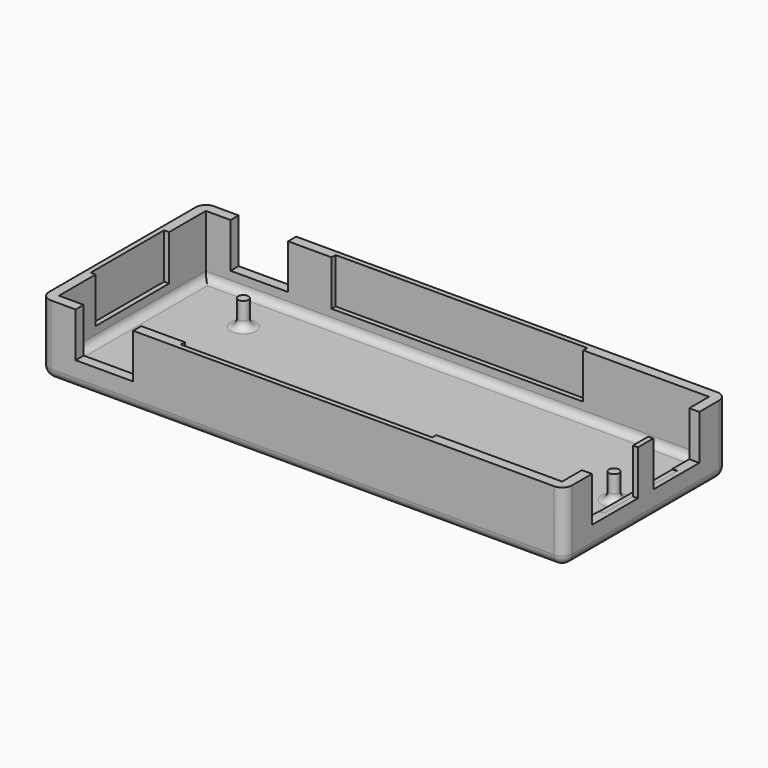
from build123d import *

# Parameters (mm, degrees)
SKETCH002_W          = 100
SKETCH002_H          = 36.5
PAD002_DEPTH         = 12
THICKNESS_T          = 2
POCKET_DEPTH         = 9.001
SKETCH018_W          = 11.43
SKETCH018_H          = 15.122581
POCKET001_DEPTH      = 52.001
SKETCH019_W          = 11.43
SKETCH019_H          = 14.044283
POCKET002_DEPTH      = 20.251
POCKET002_DEPTH_BACK = 20.251
SKETCH003_R          = 1
PAD003_DEPTH         = 5
FILLET_R             = 1.5


with BuildPart() as part:
    # Sketch002 → Pad002 (new body)
    with BuildSketch(Plane.XY):
        Rectangle(SKETCH002_W, SKETCH002_H)
    extrude(amount=PAD002_DEPTH)

    # Thickness
    thickness_openings = [part.faces().sort_by_distance(p)[0] for p in [
        (0, 0, 12),
    ]]
    offset(amount=THICKNESS_T, openings=thickness_openings)

    # Sketch012 → Pocket (cut, through all)
    with BuildSketch(Plane.XY.offset(3)):
        Polygon((-25, 19.25), (25, 19.25), (25, 9.125), (51, 9.125), (51, -9.125), (25, -9.125), (25, -19.25), (-25, -19.25), (-25, -9.125), (-51, -9.125), (-51, 9.125), (-25, 9.125), align=None)
    extrude(amount=POCKET_DEPTH, mode=Mode.SUBTRACT)

    # Sketch018 → Pocket001 (cut, through all)
    with BuildSketch(Plane.YZ):
        with Locations((-7.62, 10.638799)):
            Rectangle(SKETCH018_W, SKETCH018_H)
        with Locations((7.62, 10.638799)):
            Rectangle(SKETCH018_W, SKETCH018_H)
    extrude(amount=POCKET001_DEPTH, mode=Mode.SUBTRACT)

    # Sketch019 → Pocket002 (cut, two sides)
    with BuildSketch(Plane.XZ) as pocket002_sk:
        with Locations((-39.372, 10.143712)):
            Rectangle(SKETCH019_W, SKETCH019_H)
    extrude(amount=POCKET002_DEPTH, mode=Mode.SUBTRACT)
    extrude(pocket002_sk.sketch, amount=-POCKET002_DEPTH_BACK, mode=Mode.SUBTRACT)

    # Sketch003 → Pad003 (join)
    with BuildSketch(Plane.XY):
        with Locations((-35.562, 9.526)):
            Circle(SKETCH003_R)
        with Locations((45.722, 0)):
            Circle(SKETCH003_R)
    extrude(amount=PAD003_DEPTH)

    # Fillet
    fillet_edges = [part.edges().sort_by_distance(p)[0] for p in [
        (0, 18.25, 0),
        (-50, 0, 0),
        (50, 0, 0),
        (0, -18.25, 0),
        (44.722, 0, 0),
        (-36.562, 9.526, 0),
    ]]
    fillet(fillet_edges, radius=FILLET_R)


with BuildPart() as part_1:
    # Body001 placement: moved
    add(part.part.moved(Location((0, 0, -2))))


solid = part_1.part
